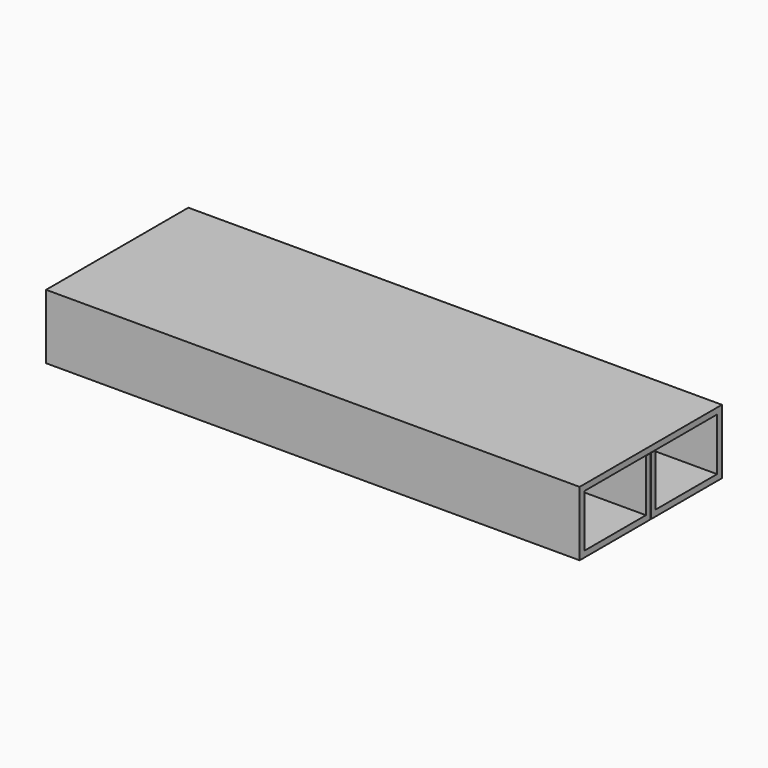
from build123d import *

# Parameters (mm, degrees)
F1_DEPTH = 209.55


with BuildPart() as f1:
    # F0 (on Right) → F1 (new body, symmetric)
    with BuildSketch(Plane.YZ):
        Polygon((69.85, 50.8), (-69.85, 50.8), (-69.85, 0), (-0.127, 0), (-0.127, 45.7835), (-4.7625, 45.7835), (-4.7625, 4.7625), (-65.0875, 4.7625), (-65.0875, 46.0375), (65.0875, 46.0375), (65.0875, 4.7625), (4.7625, 4.7625), (4.7625, 45.7835), (0.127, 45.7835), (0.127, 0), (69.85, 0), align=None)
    extrude(amount=F1_DEPTH, both=True)


solid = f1.part
